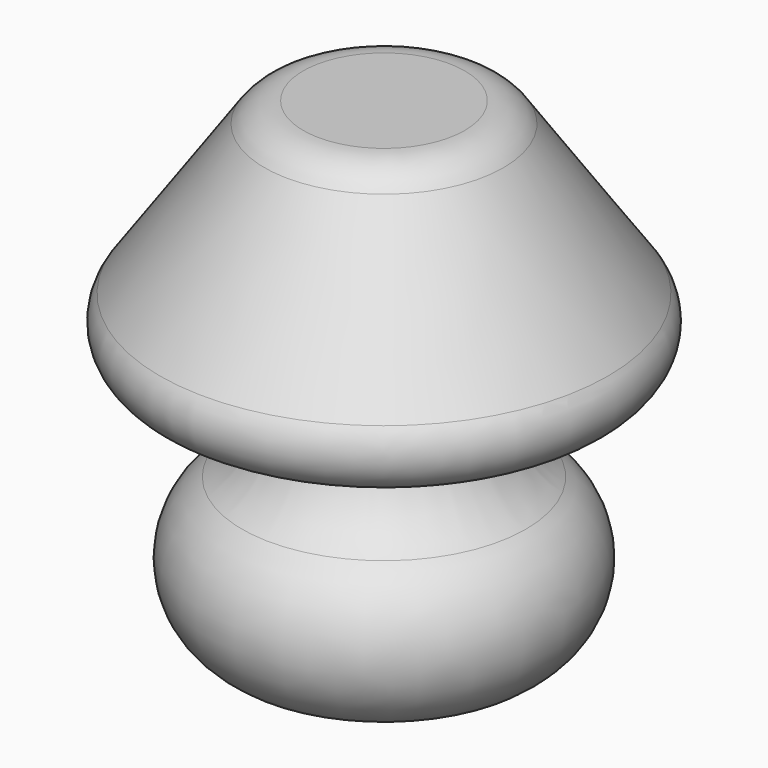
from build123d import *

# Parameters (mm, degrees)
F2_R = 3


with BuildPart() as f1:
    # F0 (on Front) → F1 (revolve)
    with BuildSketch(Plane.XZ):
        with BuildLine():
            Line((0, 100), (0, 0))
            Line((0, 0), (30, 0))
            ThreePointArc((30, 0), (38.027756, 15), (30, 30))
            ThreePointArc((30, 30), (22.474531, 38.685708), (20.459341, 50))
            Line((20.459341, 50), (40, 50))
            ThreePointArc((40, 50), (47.983097, 54.844262), (47.372368, 64.162188))
            Line((47.372368, 64.162188), (25.264312, 95.735764))
            ThreePointArc((25.264312, 95.735764), (21.690278, 98.870108), (17.072792, 100))
            Line((17.072792, 100), (0, 100))
        make_face()
    revolve(axis=Axis((0, 0, 63.060038), (0, 0, 1)))

    # F2
    f2_edges = [f1.edges().sort_by_distance(p)[0] for p in [
        (-20.459341, 0, 50),
    ]]
    fillet(f2_edges, radius=F2_R)


solid = f1.part
